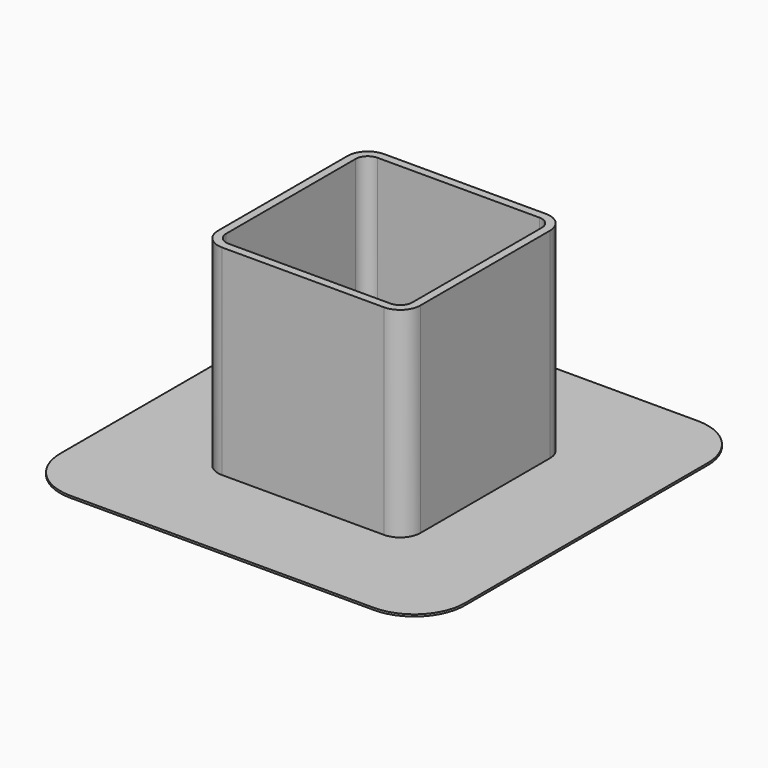
from build123d import *

# Parameters (mm, degrees)
F1_DEPTH = 20
F3_DEPTH = 0.2
F5_DEPTH = 20.001


with BuildPart() as f1:
    # F0 (on Top) → F1 (new body)
    with BuildSketch(Plane.XY):
        with BuildLine():
            Line((8, 10), (-8, 10))
            ThreePointArc((-8, 10), (-9.414214, 9.414214), (-10, 8))
            Line((-10, 8), (-10, -8))
            ThreePointArc((-10, -8), (-9.414214, -9.414214), (-8, -10))
            Line((-8, -10), (8, -10))
            ThreePointArc((8, -10), (9.414214, -9.414214), (10, -8))
            Line((10, -8), (10, 8))
            ThreePointArc((10, 8), (9.414214, 9.414214), (8, 10))
        make_face()
    extrude(amount=F1_DEPTH)

    # F2 (on face) → F3 (join)
    with BuildSketch(Plane(origin=(0, 0, 0), x_dir=(1, 0, 0), z_dir=(0, 0, -1))):
        with BuildLine():
            Line((15, 20), (-15, 20))
            ThreePointArc((-15, 20), (-18.535534, 18.535534), (-20, 15))
            Line((-20, 15), (-20, -15))
            ThreePointArc((-20, -15), (-18.535534, -18.535534), (-15, -20))
            Line((-15, -20), (15, -20))
            ThreePointArc((15, -20), (18.535534, -18.535534), (20, -15))
            Line((20, -15), (20, 15))
            ThreePointArc((20, 15), (18.535534, 18.535534), (15, 20))
        make_face()
        with BuildLine():
            Line((8, -10), (-8, -10))
            ThreePointArc((-8, -10), (-9.414214, -9.414214), (-10, -8))
            Line((-10, -8), (-10, 8))
            ThreePointArc((-10, 8), (-9.414214, 9.414214), (-8, 10))
            Line((-8, 10), (8, 10))
            ThreePointArc((8, 10), (9.414214, 9.414214), (10, 8))
            Line((10, 8), (10, -8))
            ThreePointArc((10, -8), (9.414214, -9.414214), (8, -10))
        make_face(mode=Mode.SUBTRACT)
    extrude(amount=-F3_DEPTH)

    # F4 (on face) → F5 (cut, through all)
    with BuildSketch(Plane.XY.offset(20)):
        with BuildLine():
            ThreePointArc((-8, 9.2), (-8.848528, 8.848528), (-9.2, 8))
            Line((-9.2, 8), (-9.2, -8))
            ThreePointArc((-9.2, -8), (-8.848528, -8.848528), (-8, -9.2))
            Line((-8, -9.2), (8, -9.2))
            ThreePointArc((8, -9.2), (8.848528, -8.848528), (9.2, -8))
            Line((9.2, -8), (9.2, 8))
            ThreePointArc((9.2, 8), (8.848528, 8.848528), (8, 9.2))
            Line((8, 9.2), (-8, 9.2))
        make_face()
    extrude(amount=-F5_DEPTH, mode=Mode.SUBTRACT)


solid = f1.part
